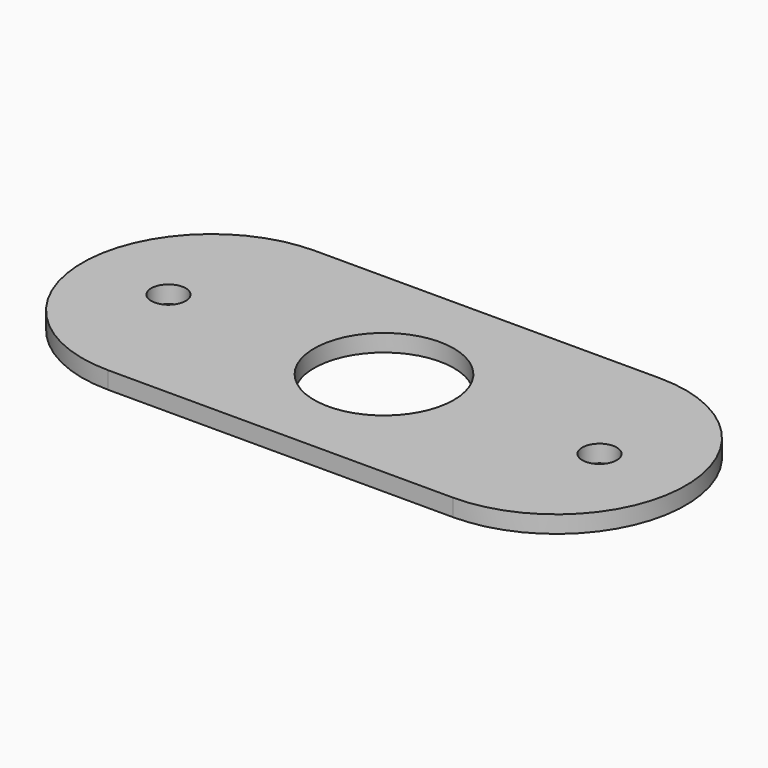
from build123d import *

# Parameters (mm, degrees)
F0_R     = 2
F1_DEPTH = 2


with BuildPart() as f1:
    # F0 (on Top) → F1 (new body)
    with BuildSketch(Plane.XY):
        with BuildLine():
            ThreePointArc((-20, 15), (-35, 0), (-20, -15))
            Line((-20, -15), (20, -15))
            ThreePointArc((20, -15), (35, 0), (20, 15))
            Line((20, 15), (-20, 15))
        make_face()
        with Locations((-25, 0)):
            Circle(F0_R, mode=Mode.SUBTRACT)
        with BuildLine():
            ThreePointArc((-8.1, 0), (0, 8.1), (8.1, 0))
            ThreePointArc((8.1, 0), (0, -8.1), (-8.1, 0))
        make_face(mode=Mode.SUBTRACT)
        with Locations((25, 0)):
            Circle(F0_R, mode=Mode.SUBTRACT)
    extrude(amount=F1_DEPTH)


solid = f1.part
